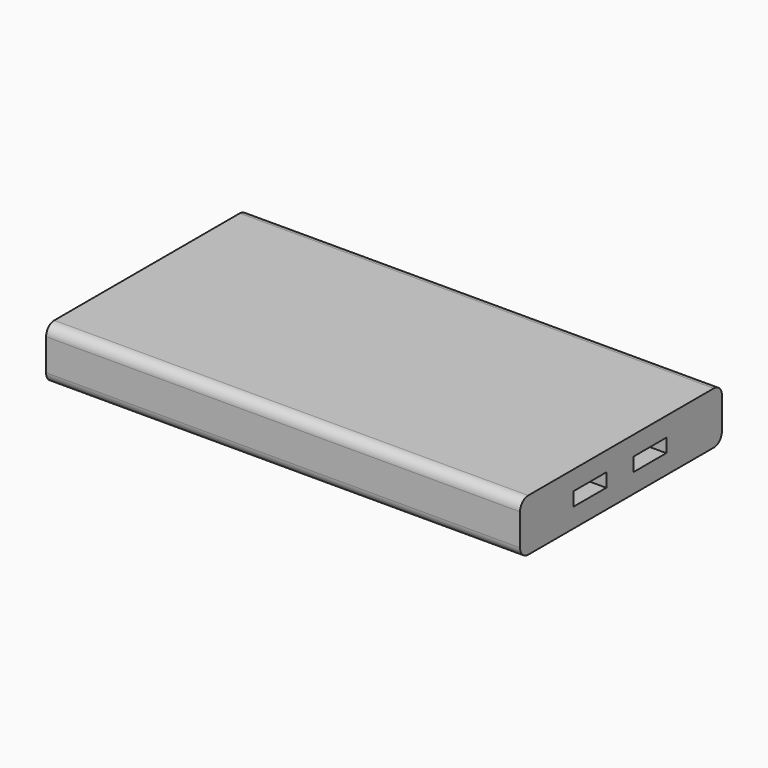
from build123d import *

# Parameters (mm, degrees)
F0_W     = 74
F0_H     = 15.3
F1_DEPTH = 69.5
F2_R     = 3
F3_W     = 12
F3_H     = 4
F4_DEPTH = 5


with BuildPart() as f1:
    # F0 (on Right) → F1 (new body, symmetric)
    with BuildSketch(Plane.YZ):
        Rectangle(F0_W, F0_H)
    extrude(amount=F1_DEPTH, both=True)

    # F2
    f2_edges = [f1.edges().sort_by_distance(p)[0] for p in [
        (0, -37, 7.65),
        (0, 37, 7.65),
        (0, 37, -7.65),
        (0, -37, -7.65),
    ]]
    fillet(f2_edges, radius=F2_R)

    # F3 (on face) → F4 (cut)
    with BuildSketch(Plane.YZ.offset(69.5)):
        with Locations((10.614212, 0)):
            Rectangle(F3_W, F3_H)
        with Locations((-11.385788, 0)):
            Rectangle(F3_W, F3_H)
    extrude(amount=-F4_DEPTH, mode=Mode.SUBTRACT)


solid = f1.part
